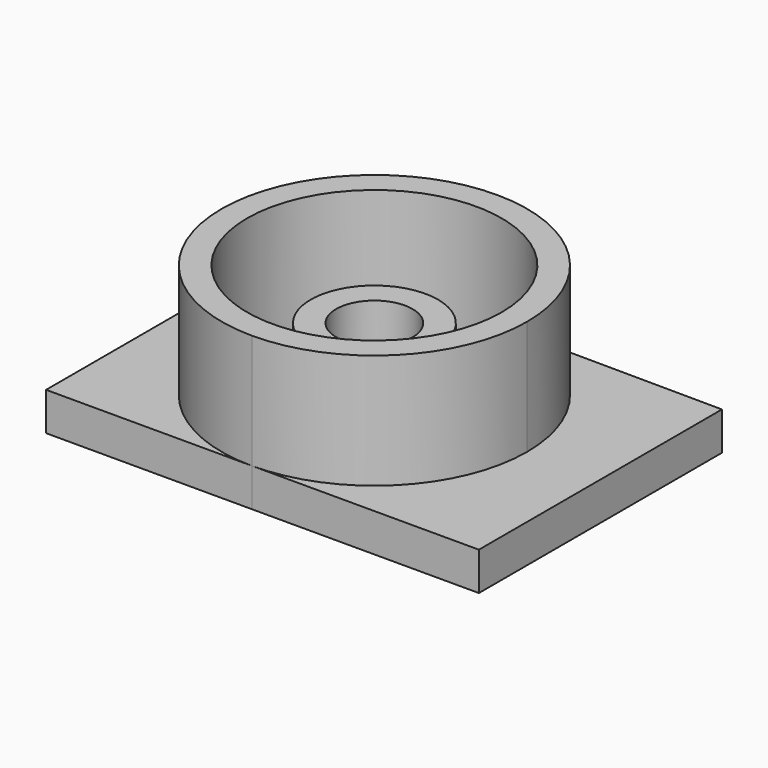
from build123d import *

# Parameters (mm, degrees)
F0_R     = 63.5
F1_DEPTH = 76.2
F0_R_2   = 31.75
F0_R_3   = 19.05
F2_DEPTH = 50.8
F0_R_4   = 6.35
F3_DEPTH = 38.1
F4_DEPTH = 19.05


with BuildPart() as f1:
    # F0 (on Top) → F1 (new body)
    with BuildSketch(Plane.XY):
        with BuildLine():
            ThreePointArc((0, -76.2), (53.881537, -53.881537), (76.2, 0))
            ThreePointArc((76.2, 0), (54.088073, 53.674206), (0.585292, 76.197752))
            ThreePointArc((0.585292, 76.197752), (-76.199438, 0.292648), (0, -76.2))
        make_face()
        Circle(F0_R, mode=Mode.SUBTRACT)
    extrude(amount=F1_DEPTH)


with BuildPart() as f2:
    # F0 (on Top) → F2 (new body)
    with BuildSketch(Plane.XY):
        Circle(F0_R_2)
        Circle(F0_R_3, mode=Mode.SUBTRACT)
    extrude(amount=F2_DEPTH)


with BuildPart() as f3:
    # F0 (on Top) → F3 (new body)
    with BuildSketch(Plane.XY):
        Circle(F0_R_4)
    extrude(amount=F3_DEPTH)


with BuildPart() as f4:
    # F0 (on Top) → F4 (new body)
    with BuildSketch(Plane.XY):
        with BuildLine():
            ThreePointArc((0, -76.2), (-76.199438, 0.292648), (0.585292, 76.197752))
            Line((0.585292, 76.197752), (-102.810882, 76.991962))
            Line((-102.810882, 76.991962), (-102.810882, -76.2))
            Line((-102.810882, -76.2), (0, -76.2))
        make_face()
        with BuildLine():
            ThreePointArc((0.585292, 76.197752), (54.088073, 53.674206), (76.2, 0))
            ThreePointArc((76.2, 0), (53.881537, -53.881537), (0, -76.2))
            Line((0, -76.2), (113.089118, -76.2))
            Line((113.089118, -76.2), (113.089118, 75.333584))
            Line((113.089118, 75.333584), (0.585292, 76.197752))
        make_face()
        Circle(F0_R)
        Circle(F0_R_2, mode=Mode.SUBTRACT)
        Circle(F0_R_3)
        Circle(F0_R_4, mode=Mode.SUBTRACT)
    extrude(amount=F4_DEPTH)


solid = Compound([f1.part, f2.part, f3.part, f4.part])
